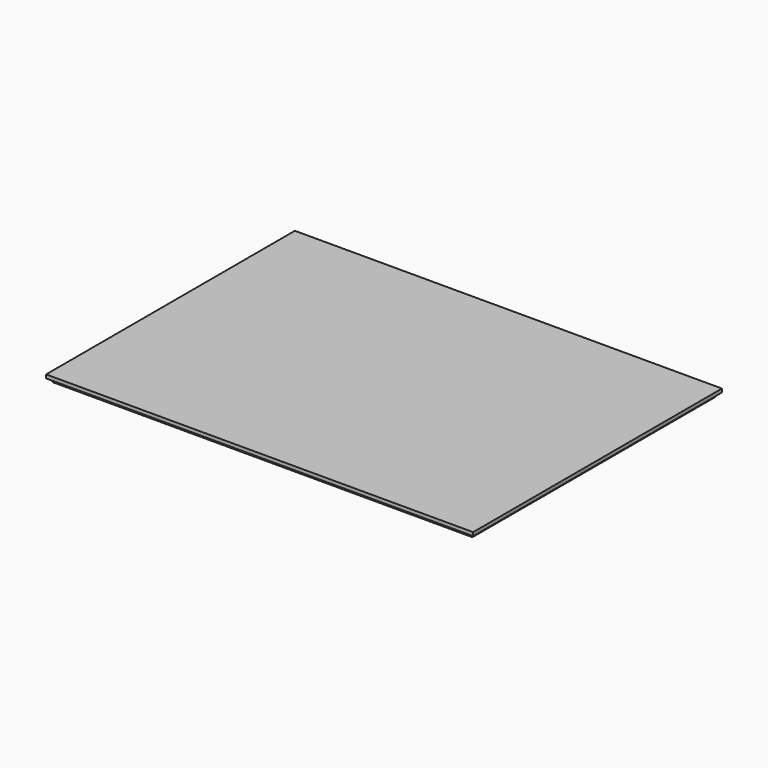
from build123d import *

# Parameters (mm, degrees)
F0_W     = 725
F0_H     = 12
F1_DEPTH = 528
F2_W     = 6
F2_H     = 6
F3_DEPTH = 725.001
F4_W     = 6
F4_H     = 6
F5_DEPTH = 528.001


with BuildPart() as f1:
    # F0 (on Front) → F1 (new body)
    with BuildSketch(Plane.XZ):
        with Locations((362.5, 6)):
            Rectangle(F0_W, F0_H)
    extrude(amount=F1_DEPTH)

    # F2 (on Right) → F3 (cut, through all)
    with BuildSketch(Plane.YZ):
        with Locations((-525, 3)):
            Rectangle(F2_W, F2_H)
        with Locations((-3, 3)):
            Rectangle(F2_W, F2_H)
    extrude(amount=F3_DEPTH, mode=Mode.SUBTRACT)

    # F4 (on Front) → F5 (cut, through all)
    with BuildSketch(Plane.XZ):
        with Locations((3, 3)):
            Rectangle(F4_W, F4_H)
        with Locations((722, 3)):
            Rectangle(F4_W, F4_H)
    extrude(amount=F5_DEPTH, mode=Mode.SUBTRACT)


solid = f1.part
